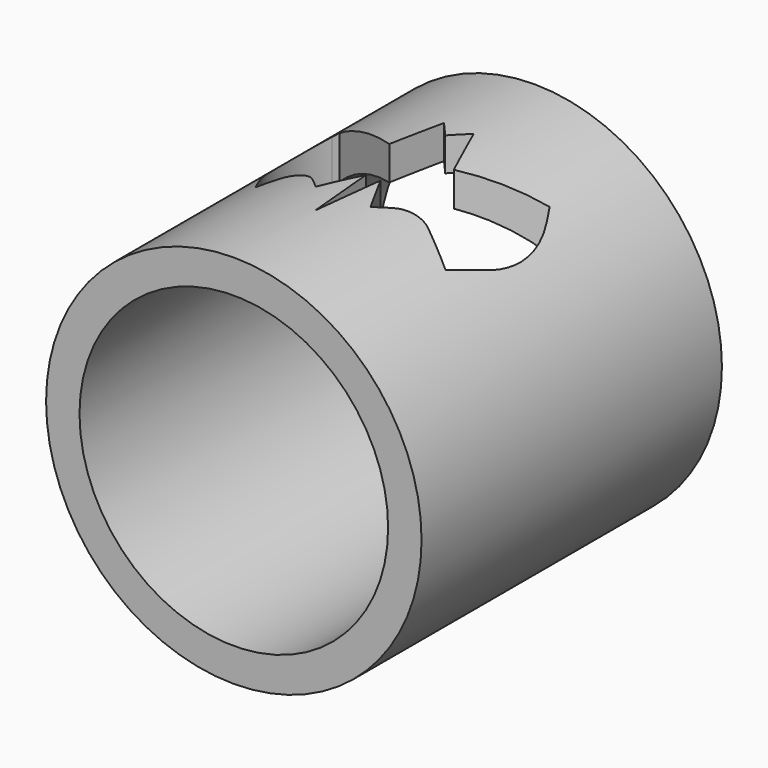
from build123d import *

# Parameters (mm, degrees)
F0_R     = 1.5
F0_R_2   = 1.2328953581
F1_DEPTH = 3
F3_DEPTH = 1.5
F4_DEPTH = 25


with BuildPart() as f1:
    # F0 (on Front) → F1 (new body)
    with BuildSketch(Plane.XZ):
        Circle(F0_R)
        Circle(F0_R_2, mode=Mode.SUBTRACT)
    extrude(amount=F1_DEPTH)

    # F2 (on Top) → F3 (join)
    with BuildSketch(Plane.XY):
        with BuildLine():
            Line((-0.2170445457, -1.9110607387), (-0.0532556793, -1.6140477018))
            Line((-0.0532556793, -1.6140477018), (0, -2.1869295742))
            Line((0, -2.1869295742), (0.063720039, -1.6140477018))
            Line((0.063720039, -1.6140477018), (0.2208565566, -1.9110607387))
            Line((0.2208565566, -1.9110607387), (0.3210042121, -1.8039008222))
            ThreePointArc((0.3210042121, -1.8039008222), (0.4394470504, -1.7423849636), (0.5702157889, -1.769076607))
            Line((0.5702157889, -1.769076607), (0.8352482378, -1.9284979207))
            Line((0.8352482378, -1.9284979207), (0.9364700396, -1.665068496))
            ThreePointArc((0.9364700396, -1.665068496), (0.9872243455, -1.3152211188), (0.8822508219, -0.9776566862))
            Line((0.8822508219, -0.9776566862), (0.8199558369, -0.8699269849))
            Line((0.8199558369, -0.8699269849), (0.2961963428, -1.1727922988))
            Line((0.2961963428, -1.1727922988), (0.1204969513, -0.7554680719))
            Line((0.1204969513, -0.7554680719), (0, -0.8884153469))
            Line((0, -0.8884153469), (-0.1163881984, -0.7554680719))
            Line((-0.1163881984, -0.7554680719), (-0.219284062, -1.1727922988))
            Line((-0.219284062, -1.1727922988), (-0.8608880205, -0.8699269849))
            Line((-0.8608880205, -0.8699269849), (-0.8826491019, -0.9160266711))
            ThreePointArc((-0.8826491019, -0.9160266711), (-0.957948802, -1.3022589875), (-0.839994516, -1.6776684087))
            Line((-0.839994516, -1.6776684087), (-0.6851987564, -1.9284979207))
            Line((-0.6851987564, -1.9284979207), (-0.5948000148, -1.8317695295))
            ThreePointArc((-0.5948000148, -1.8317695295), (-0.4554398067, -1.7684434694), (-0.3121189719, -1.822207731))
            Line((-0.3121189719, -1.822207731), (-0.2170445457, -1.9110607387))
        make_face()
    extrude(amount=F3_DEPTH)

    # F4 (cut): a face of the model
    f4_faces = [f1.faces().sort_by_distance(p)[0] for p in [
        (0.0206453189, -1.3877719682, 0),
    ]]
    extrude(f4_faces, amount=-F4_DEPTH, mode=Mode.SUBTRACT)


solid = f1.part
